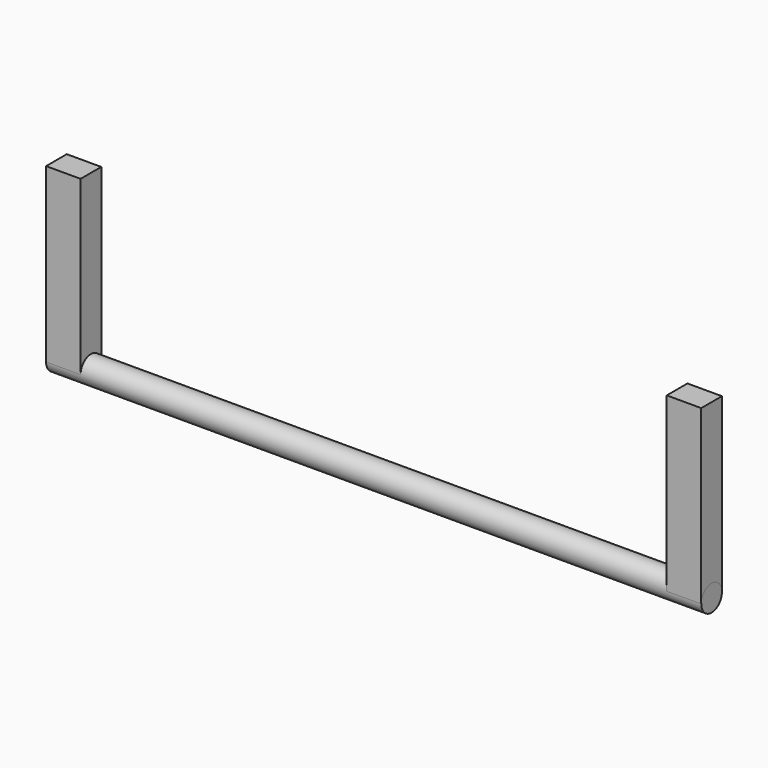
from build123d import *

# Parameters (mm, degrees)
F0_R     = 9.525
F1_DEPTH = 482.6
F3_DEPTH = 25.4
F5_DEPTH = 25.4


with BuildPart() as f1:
    # F0 (on Right) → F1 (new body)
    with BuildSketch(Plane.YZ):
        Circle(F0_R)
    extrude(amount=F1_DEPTH)


with BuildPart() as f3:
    # F2 (on face) → F3 (new body)
    with BuildSketch(Plane(origin=(0, 0, 0), x_dir=(0, -1, 0), z_dir=(-1, 0, 0))):
        with BuildLine():
            Line((-9.525, 127), (-9.525, 0))
            ThreePointArc((-9.525, 0), (0, 9.525), (9.525, 0))
            Line((9.525, 0), (9.525, 127))
            Line((9.525, 127), (-9.525, 127))
        make_face()
    extrude(amount=-F3_DEPTH)


with BuildPart() as f5:
    # F4 (on face) → F5 (new body)
    with BuildSketch(Plane.YZ.offset(482.6)):
        with BuildLine():
            Line((-9.525, 127), (-9.525, 0))
            ThreePointArc((-9.525, 0), (0, 9.525), (9.525, 0))
            Line((9.525, 0), (9.525, 127))
            Line((9.525, 127), (-9.525, 127))
        make_face()
    extrude(amount=-F5_DEPTH)


solid = Compound([f1.part, f3.part, f5.part])
